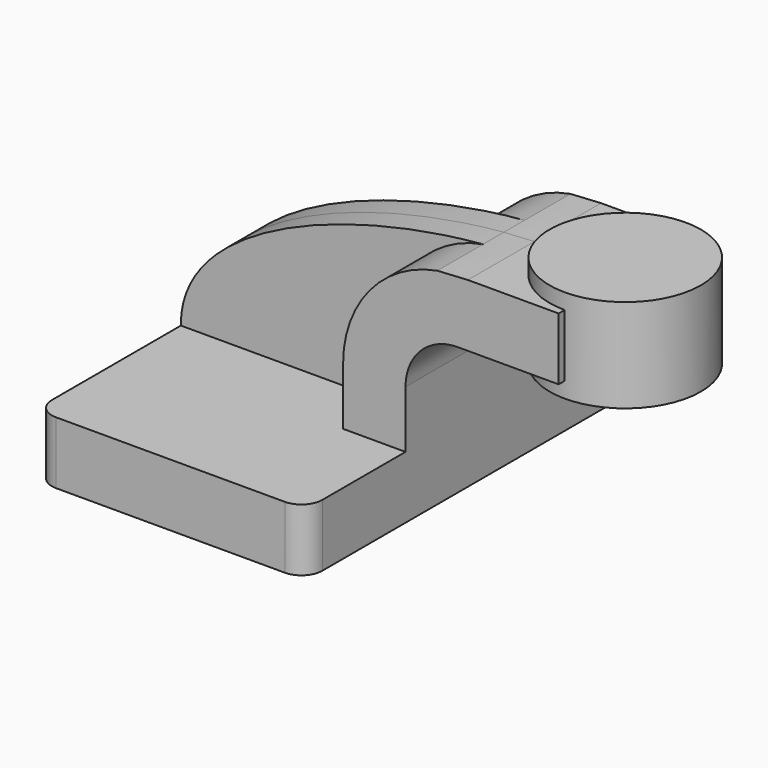
from build123d import *

# Parameters (mm, degrees)
F1_DEPTH = 63.5
F2_DEPTH = 25.4
F3_DEPTH = 7.9375
F0_W     = 27.708321
F0_H     = 19.05
F4_DEPTH = 25.4
F6_R     = 6.35


with BuildPart() as f1:
    # F0 (on Front) → F1 (new body, symmetric)
    with BuildSketch(Plane.XZ):
        Polygon((41.275, -9.525), (41.275, 9.525), (22.225, 9.525), (-41.275, 9.525), (-41.275, -9.525), align=None)
    extrude(amount=F1_DEPTH, both=True)

    # F0 (on Front) → F2 (join, symmetric)
    with BuildSketch(Plane.XZ):
        with BuildLine():
            Line((22.225, 9.525), (41.275, 9.525))
            Line((41.275, 9.525), (41.275, 27.0002))
            ThreePointArc((41.275, 27.0002), (45.92468, 38.22552), (57.15, 42.8752))
            Line((57.15, 42.8752), (60.325, 42.8752))
            Line((60.325, 42.8752), (60.325, 61.9252))
            add(Edge.make_bspline(
                [(50.978388, 61.375581), (54.16985, 61.649544), (57.295356, 61.833243), (60.325, 61.9252)],
                knots=[106.038732, 106.038732, 106.038732, 106.038732, 114.316845, 114.316845, 114.316845, 114.316845], degree=3))
            ThreePointArc((50.978388, 61.375581), (30.361017, 49.407923), (22.225, 27.0002))
            Line((22.225, 27.0002), (22.225, 9.525))
        make_face()
    extrude(amount=F2_DEPTH, both=True)

    # F0 (on Front) → F3 (join, symmetric)
    with BuildSketch(Plane.XZ):
        with BuildLine():
            Line((-41.275, 9.525), (22.225, 9.525))
            Line((22.225, 9.525), (22.225, 27.0002))
            ThreePointArc((22.225, 27.0002), (30.361017, 49.407923), (50.978388, 61.375581))
            add(Edge.make_bspline(
                [(-41.275, 9.525), (-41.606238, 39.546193), (10.097253, 57.86625), (50.978388, 61.375581)],
                knots=[0, 0, 0, 0, 106.038732, 106.038732, 106.038732, 106.038732], degree=3))
        make_face()
    extrude(amount=F3_DEPTH, both=True)

    # F0 (on Front) → F4 (join, symmetric)
    with BuildSketch(Plane.XZ):
        with Locations((74.17916, 52.4002)):
            Rectangle(F0_W, F0_H)
    extrude(amount=F4_DEPTH, both=True)

    # F0 (on Front) → F5 (revolve)
    with BuildSketch(Plane.XZ):
        Polygon((88.033321, 61.9252), (88.033321, 42.8752), (88.033321, 38.1), (111.125, 38.1), (111.125, 66.675), (88.033321, 66.675), align=None)
    revolve(axis=Axis((88.033321, 0, 52.3875), (0, 0, -1)))

    # F6
    f6_edges = [f1.edges().sort_by_distance(p)[0] for p in [
        (41.275, -63.5, 0),
        (-41.275, -63.5, 0),
        (-41.275, 63.5, 0),
        (41.275, 63.5, 0),
    ]]
    fillet(f6_edges, radius=F6_R)


solid = f1.part
